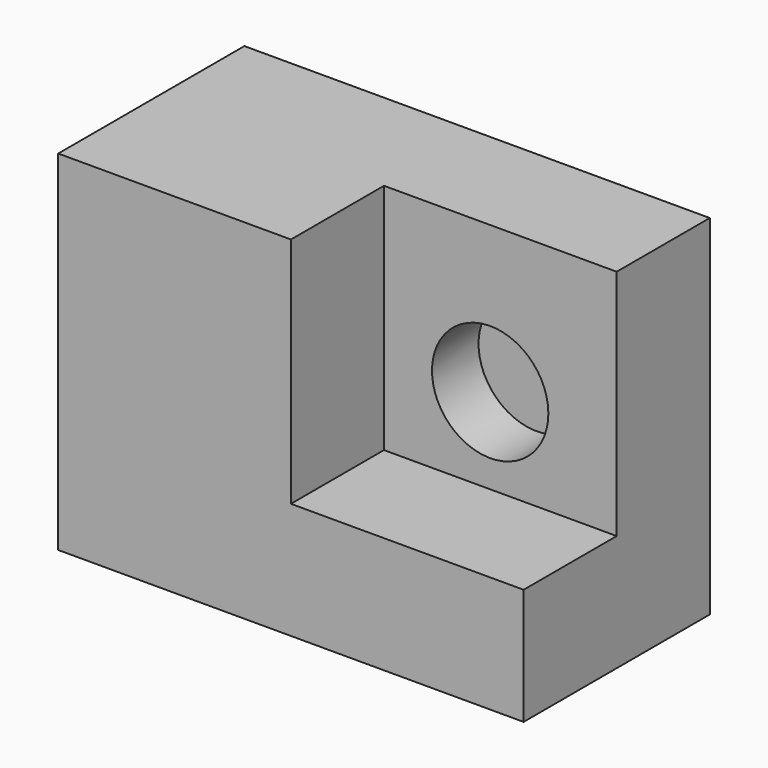
from build123d import *

# Parameters (mm, degrees)
F0_W     = 50.8
F0_H     = 38.1
F1_DEPTH = 25.4
F2_W     = 25.4
F2_H     = 12.7
F3_DEPTH = 25.4
F4_R     = 6.35
F5_DEPTH = 6.35


with BuildPart() as f1:
    # F0 (on Front) → F1 (new body)
    with BuildSketch(Plane.XZ):
        with Locations((5.782433, 3.379637)):
            Rectangle(F0_W, F0_H)
    extrude(amount=F1_DEPTH)

    # F2 (on face) → F3 (cut)
    with BuildSketch(Plane.XY.offset(22.429637)):
        with Locations((18.482433, -19.05)):
            Rectangle(F2_W, F2_H)
    extrude(amount=-F3_DEPTH, mode=Mode.SUBTRACT)

    # F4 (on face) → F5 (cut)
    with BuildSketch(Plane.XZ.offset(12.7)):
        with Locations((17.372906, 6.372478)):
            Circle(F4_R)
    extrude(amount=-F5_DEPTH, mode=Mode.SUBTRACT)


solid = f1.part
